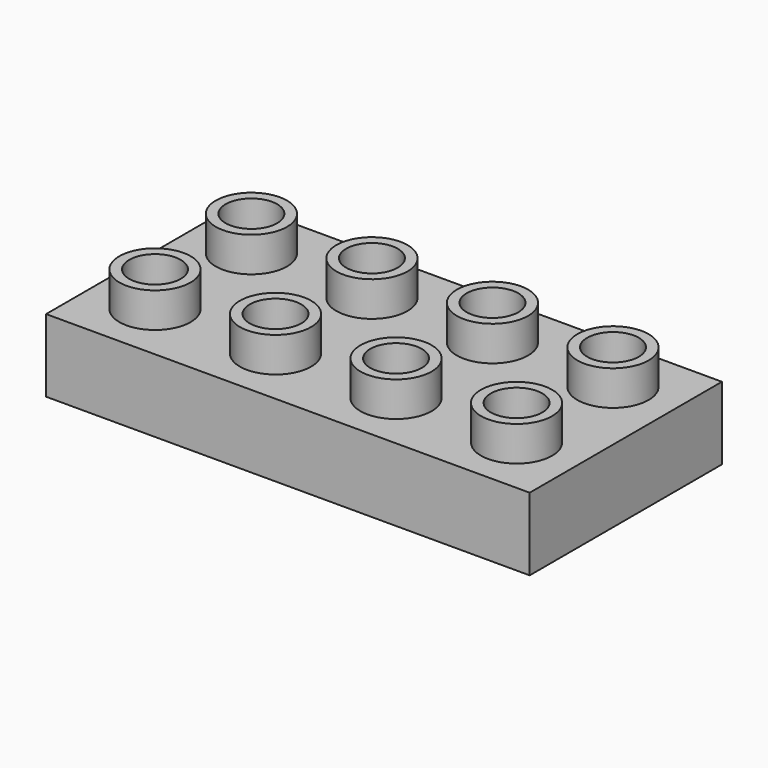
from build123d import *

# Parameters (mm, degrees)
F0_W     = 63.8
F0_H     = 31.7
F1_DEPTH = 9.6
F2_R     = 4.7
F2_R_2   = 3.4
F3_DEPTH = 4.6


with BuildPart() as f1:
    # F0 (on Top) → F1 (new body)
    with BuildSketch(Plane.XY):
        Rectangle(F0_W, F0_H)
    extrude(amount=F1_DEPTH)

    # F2 (on face) → F3 (join)
    with BuildSketch(Plane.XY.offset(9.6)):
        with Locations((7.95, 7.95)):
            Circle(F2_R)
        with Locations((7.95, 7.95)):
            Circle(F2_R_2, mode=Mode.SUBTRACT)
        with Locations((-7.95, 7.95)):
            Circle(F2_R)
        with Locations((-7.95, 7.95)):
            Circle(F2_R_2, mode=Mode.SUBTRACT)
        with Locations((-23.85, 7.95)):
            Circle(F2_R)
        with Locations((-23.85, 7.95)):
            Circle(F2_R_2, mode=Mode.SUBTRACT)
        with Locations((23.85, 7.95)):
            Circle(F2_R)
        with Locations((23.85, 7.95)):
            Circle(F2_R_2, mode=Mode.SUBTRACT)
        with Locations((7.95, -7.95)):
            Circle(F2_R)
        with Locations((7.95, -7.95)):
            Circle(F2_R_2, mode=Mode.SUBTRACT)
        with Locations((-23.85, -7.95)):
            Circle(F2_R)
        with Locations((-23.85, -7.95)):
            Circle(F2_R_2, mode=Mode.SUBTRACT)
        with Locations((23.85, -7.95)):
            Circle(F2_R)
        with Locations((23.85, -7.95)):
            Circle(F2_R_2, mode=Mode.SUBTRACT)
        with Locations((-7.95, -7.95)):
            Circle(F2_R)
        with Locations((-7.95, -7.95)):
            Circle(F2_R_2, mode=Mode.SUBTRACT)
    extrude(amount=F3_DEPTH)


solid = f1.part
